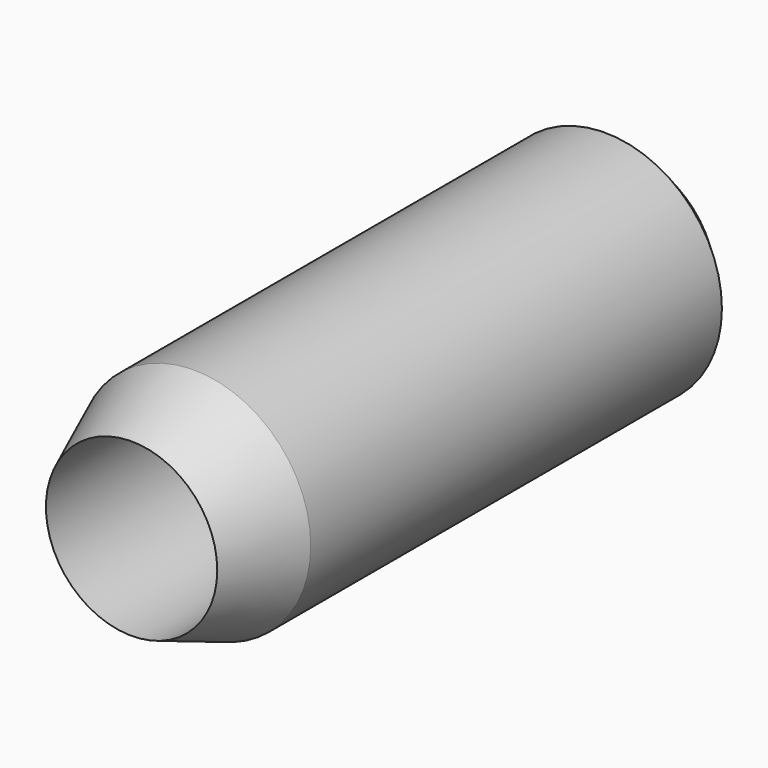
from build123d import *

# Parameters (mm, degrees)
F0_R     = 19.05
F0_R_2   = 12.7
F1_DEPTH = 101.6
F2_SIZE2 = 12.7
F2_SIZE  = 5.08
F3_DEPTH = 95.25
F4_SIZE  = 5.08


with BuildPart() as f1:
    # F0 (on Front) → F1 (new body)
    with BuildSketch(Plane.XZ):
        Circle(F0_R)
        Circle(F0_R_2, mode=Mode.SUBTRACT)
        Circle(F0_R_2)
    extrude(amount=F1_DEPTH)

    # F2
    f2_edges = [f1.edges().sort_by_distance(p)[0] for p in [
        (-19.05, -101.6, 0),
    ]]
    f2_side = f1.faces().sort_by_distance((0, -101.6, 0))[0]
    chamfer(f2_edges, length=F2_SIZE, length2=F2_SIZE2, reference=f2_side)

    # F3 (cut): a face of the model
    f3_faces = [f1.faces().sort_by_distance(p)[0] for p in [
        (0, -101.6, 0),
    ]]
    extrude(f3_faces, amount=-F3_DEPTH, mode=Mode.SUBTRACT)

    # F4
    f4_edges = [f1.edges().sort_by_distance(p)[0] for p in [
        (-19.05, 0, 0),
    ]]
    chamfer(f4_edges, length=F4_SIZE)


solid = f1.part
